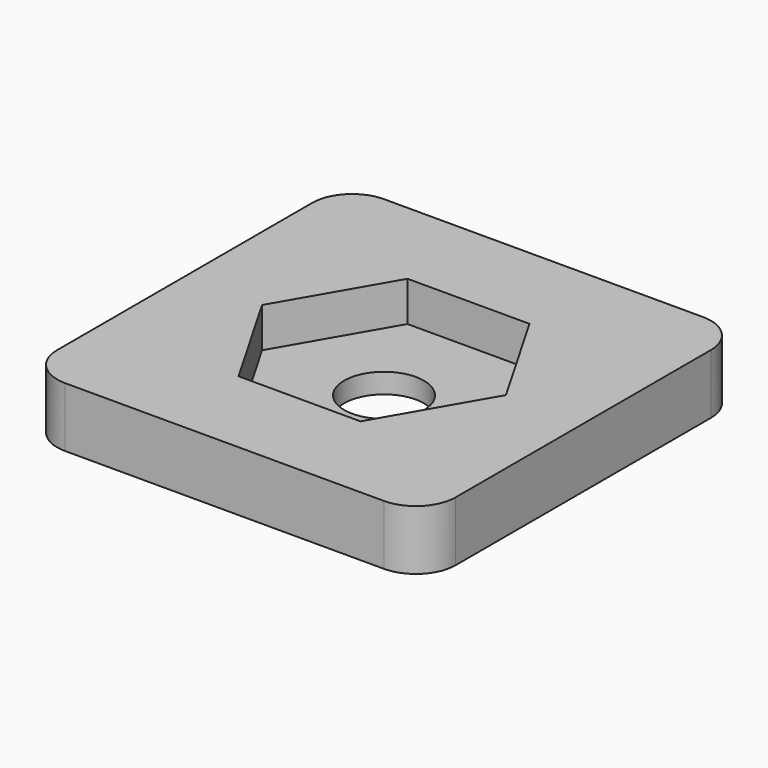
from build123d import *

# Parameters (mm, degrees)
F0_W     = 127
F0_H     = 127
F1_DEPTH = 19.05
F3_DEPTH = 12.7
F4_R     = 12.7
F5_R     = 12.7
F6_DEPTH = 25.4


with BuildPart() as f1:
    # F0 (on Top) → F1 (new body)
    with BuildSketch(Plane.XY):
        Rectangle(F0_W, F0_H)
    extrude(amount=F1_DEPTH)

    # F2 (on face) → F3 (cut)
    with BuildSketch(Plane.XY.offset(19.05)):
        Polygon((19.431, -33.655479), (38.862, 0), (19.431, 33.655479), (-19.431, 33.655479), (-38.862, 0), (-19.431, -33.655479), align=None)
    extrude(amount=-F3_DEPTH, mode=Mode.SUBTRACT)

    # F4
    f4_edges = [f1.edges().sort_by_distance(p)[0] for p in [
        (-63.5, -63.5, 9.525),
        (63.5, -63.5, 9.525),
        (63.5, 63.5, 9.525),
        (-63.5, 63.5, 9.525),
    ]]
    fillet(f4_edges, radius=F4_R)

    # F5 (on face) → F6 (cut)
    with BuildSketch(Plane(origin=(0, 0, 0), x_dir=(1, 0, 0), z_dir=(0, 0, -1))):
        Circle(F5_R)
    extrude(amount=-F6_DEPTH, mode=Mode.SUBTRACT)


solid = f1.part
